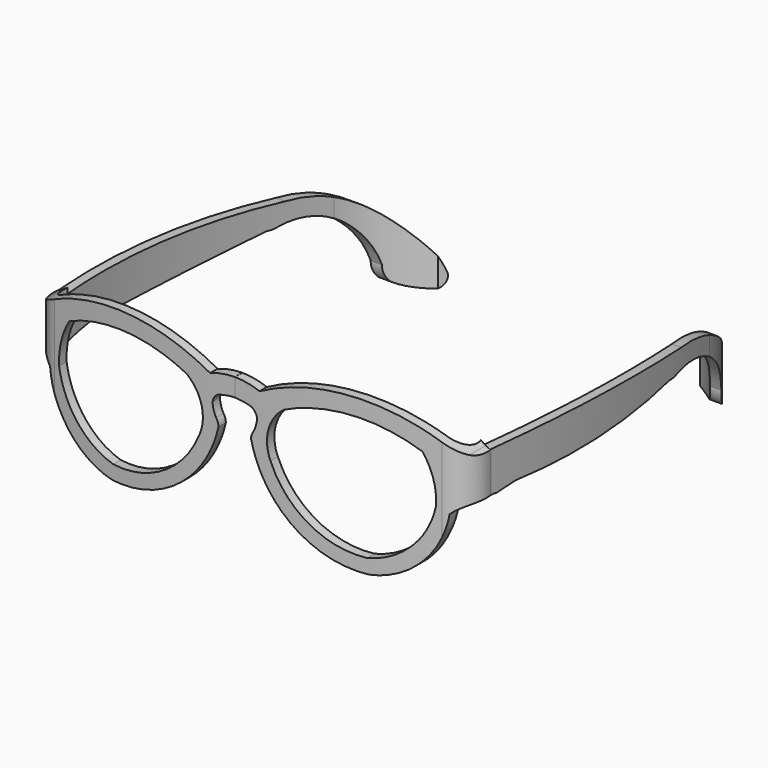
from build123d import *

# Parameters (mm, degrees)
F1_DEPTH = 50
F3_DEPTH = 12.5
F5_DEPTH = 120.71881


with BuildPart() as f1:
    # F0 (on Top) → F1 (new body)
    with BuildSketch(Plane.XY):
        with BuildLine():
            Line((40.002258, 134.502386), (42.532537, 129.947542))
            ThreePointArc((42.532537, 129.947542), (52.957914, 120.971649), (59.058153, 108.64111))
            ThreePointArc((59.058153, 108.64111), (67.402891, 59.971167), (66.964676, 10.592974))
            ThreePointArc((66.964676, 10.592974), (66.287218, 5.728313), (62.238263, 2.948054))
            ThreePointArc((62.238263, 2.948054), (31.27164, -1.316235), (0.035126, -2.49782))
            Line((0.035126, -2.49782), (0, -5.497614))
            ThreePointArc((0, -5.497614), (31.533288, -4.304803), (62.794122, 0))
            ThreePointArc((62.794122, 0), (68.670649, 3.888688), (70, 10.808825))
            ThreePointArc((70, 10.808825), (70.372472, 60.467685), (61.957982, 109.40987))
            ThreePointArc((61.957982, 109.40987), (53.915631, 124.524673), (40.002258, 134.502386))
        make_face()
    extrude(amount=F1_DEPTH)

    # F2 (on Front) → F3 (cut, symmetric)
    with BuildSketch(Plane.XZ):
        with BuildLine():
            ThreePointArc((0, 43.803521), (4.071755, 43.428102), (8.006221, 42.314506))
            ThreePointArc((8.006221, 42.314506), (38.623387, 49.465996), (68.617455, 40.036758))
            ThreePointArc((68.617455, 40.036758), (70.056785, 39.329709), (71.619404, 38.969422))
            Line((71.619404, 38.969422), (72.737282, 52.092204))
            Line((72.737282, 52.092204), (0, 52.092204))
            Line((0, 52.092204), (0, 43.803521))
        make_face()
        with BuildLine():
            Line((72.572239, 0), (71.494415, 26.563261))
            ThreePointArc((71.494415, 26.563261), (67.897805, 25.375791), (64.789861, 23.210987))
            ThreePointArc((64.789861, 23.210987), (57.106366, 7.735512), (41.656826, 0))
            Line((41.656826, 0), (72.572239, 0))
        make_face()
        with BuildLine():
            Line((0, 0), (38.461407, 0))
            ThreePointArc((38.461407, 0), (17.170577, 8.291124), (5.296929, 27.811848))
            ThreePointArc((5.296929, 27.811848), (5.475311, 29.080694), (6.057988, 30.221868))
            ThreePointArc((6.057988, 30.221868), (6.890526, 32.243397), (7.199576, 34.407694))
            ThreePointArc((7.199576, 34.407694), (6.575867, 35.973557), (5.296929, 37.071399))
            ThreePointArc((5.296929, 37.071399), (2.676765, 37.679739), (0, 37.94482))
            Line((0, 37.94482), (0, 0))
        make_face()
        with BuildLine():
            ThreePointArc((38.461407, 0), (40.059116, -0.035849), (41.656826, 0))
            Line((41.656826, 0), (38.461407, 0))
        make_face()
        with BuildLine():
            ThreePointArc((61.128087, 24.918271), (60.332853, 32.425862), (57.233833, 39.310075))
            ThreePointArc((57.233833, 39.310075), (36.511879, 44.092186), (15.751578, 39.47939))
            ThreePointArc((15.751578, 39.47939), (10.844505, 32.263758), (11.518694, 23.563748))
            ThreePointArc((11.518694, 23.563748), (23.325374, 9.381446), (41.148879, 4.60043))
            ThreePointArc((41.148879, 4.60043), (54.304624, 11.645979), (61.128087, 24.918271))
        make_face()
    extrude(amount=F3_DEPTH, both=True, mode=Mode.SUBTRACT)

    # F4 (on Right) → F5 (cut)
    with BuildSketch(Plane.YZ):
        with BuildLine():
            ThreePointArc((10.507539, 39.329715), (52.002987, 37.58886), (93.323136, 33.399812))
            ThreePointArc((93.323136, 33.399812), (116.875976, 24.72438), (132.077813, 4.751809))
            ThreePointArc((132.077813, 4.751809), (131.812382, 1.430472), (128.803149, 0))
            ThreePointArc((128.803149, 0), (125.343584, 0.646275), (122.253828, 2.331405))
            ThreePointArc((122.253828, 2.331405), (121.045031, 4.614074), (120.687686, 7.172212))
            ThreePointArc((120.687686, 7.172212), (109.757085, 22.774215), (91.173269, 26.962569))
            ThreePointArc((91.173269, 26.962569), (89.222442, 26.753058), (87.271616, 26.962569))
            ThreePointArc((87.271616, 26.962569), (53.649501, 25.741067), (20.027386, 26.962569))
            ThreePointArc((20.027386, 26.962569), (15.102667, 26.419424), (10.203395, 25.681179))
            Line((10.203395, 25.681179), (8.067746, -4.787427))
            Line((8.067746, -4.787427), (139.623776, -6.780701))
            Line((139.623776, -6.780701), (139.623776, 52.44799))
            Line((139.623776, 52.44799), (10.203395, 52.44799))
            Line((10.203395, 52.44799), (10.507539, 39.329715))
        make_face()
    extrude(amount=F5_DEPTH, mode=Mode.SUBTRACT)


with BuildPart() as f6_1:
    # F6: instance of F1
    add(f1.part.mirror(Plane.YZ))


solid = Compound([f1.part, f6_1.part])
